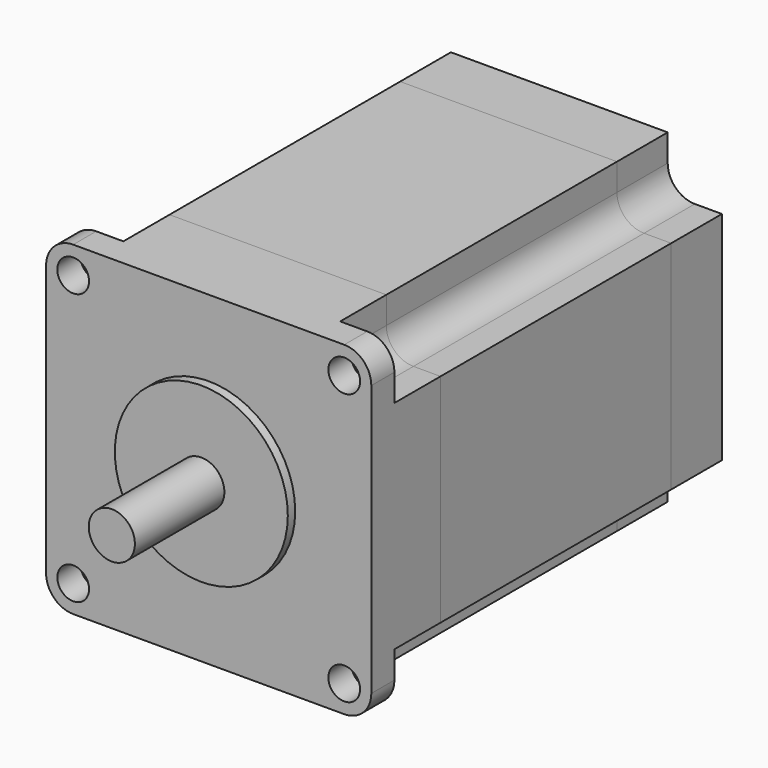
from build123d import *

# Parameters (mm, degrees)
F0_W      = 56.4
F0_H      = 56.4
F1_DEPTH  = 15
F3_D      = 5.5
F5_DEPTH  = 10
F7_DEPTH  = 5.001
F8_DEPTH  = 50
F9_DEPTH  = 11
F10_R     = 15
F11_DEPTH = 1.6
F12_R     = 4
F13_DEPTH = 21
F14_R     = 3.175
F15_DEPTH = 15


with BuildPart() as f1:
    # F0 (on Front) → F1 (new body)
    with BuildSketch(Plane.XZ):
        Rectangle(F0_W, F0_H)
    extrude(amount=-F1_DEPTH)

    # F3 (through all)
    with Locations(Plane.XZ):
        with Locations((-23.5, -23.5), (-23.5, 23.5), (23.5, 23.5), (23.5, -23.5)):
            Hole(F3_D / 2)

    # F4 (on face) → F5 (cut)
    with BuildSketch(Plane(origin=(0, 15, 0), x_dir=(-1, 0, 0), z_dir=(0, 1, 0))):
        with BuildLine():
            Line((28.2, 18.8), (28.2, 28.2))
            Line((28.2, 28.2), (18.8, 28.2))
            Line((18.8, 28.2), (18.8, 23.5))
            ThreePointArc((18.8, 23.5), (20.1765981284, 20.1765981284), (23.5, 18.8))
            Line((23.5, 18.8), (28.2, 18.8))
        make_face()
        with BuildLine():
            Line((28.2, -28.2), (28.2, -18.8))
            Line((28.2, -18.8), (23.5, -18.8))
            ThreePointArc((23.5, -18.8), (20.1765981284, -20.1765981284), (18.8, -23.5))
            Line((18.8, -23.5), (18.8, -28.2))
            Line((18.8, -28.2), (28.2, -28.2))
        make_face()
        with BuildLine():
            Line((-18.8, 23.5), (-18.8, 28.2))
            Line((-18.8, 28.2), (-28.2, 28.2))
            Line((-28.2, 28.2), (-28.2, 18.8))
            Line((-28.2, 18.8), (-23.5, 18.8))
            ThreePointArc((-23.5, 18.8), (-20.1765981284, 20.1765981284), (-18.8, 23.5))
        make_face()
        with BuildLine():
            Line((-28.2, -18.8), (-28.2, -28.2))
            Line((-28.2, -28.2), (-18.8, -28.2))
            Line((-18.8, -28.2), (-18.8, -23.5))
            ThreePointArc((-18.8, -23.5), (-20.1765981284, -20.1765981284), (-23.5, -18.8))
            Line((-23.5, -18.8), (-28.2, -18.8))
        make_face()
    extrude(amount=-F5_DEPTH, mode=Mode.SUBTRACT)

    # F6 (on face) → F7 (cut, through all)
    with BuildSketch(Plane(origin=(0, 5, 0), x_dir=(-1, 0, 0), z_dir=(0, 1, 0))):
        with BuildLine():
            ThreePointArc((23.5, 28.2), (26.8234018716, 26.8234018716), (28.2, 23.5))
            Line((28.2, 23.5), (28.2, 28.2))
            Line((28.2, 28.2), (23.5, 28.2))
        make_face()
        with BuildLine():
            Line((23.5, -28.2), (28.2, -28.2))
            Line((28.2, -28.2), (28.2, -23.5))
            ThreePointArc((28.2, -23.5), (26.8234018716, -26.8234018716), (23.5, -28.2))
        make_face()
        with BuildLine():
            Line((-23.5, 28.2), (-28.2, 28.2))
            Line((-28.2, 28.2), (-28.2, 23.5))
            ThreePointArc((-28.2, 23.5), (-26.8234018716, 26.8234018716), (-23.5, 28.2))
        make_face()
        with BuildLine():
            Line((-28.2, -28.2), (-23.5, -28.2))
            ThreePointArc((-23.5, -28.2), (-26.8234018716, -26.8234018716), (-28.2, -23.5))
            Line((-28.2, -23.5), (-28.2, -28.2))
        make_face()
    extrude(amount=-F7_DEPTH, mode=Mode.SUBTRACT)


with BuildPart() as f8:
    # F8 (new): a face of the model
    f8_faces = [f1.part.faces().sort_by_distance(p)[0] for p in [
        (0, 15, 0),
    ]]
    extrude(f8_faces, amount=F8_DEPTH)


with BuildPart() as f9:
    # F9 (new): a face of the model
    f9_faces = [f8.part.faces().sort_by_distance(p)[0] for p in [
        (0, 65, 0),
    ]]
    extrude(f9_faces, amount=F9_DEPTH)


with BuildPart() as f1_1:
    add(f1.part)

    # F10 (on face) → F11 (join)
    with BuildSketch(Plane.XZ):
        Circle(F10_R)
    extrude(amount=F11_DEPTH)


with BuildPart() as f13:
    # F12 (on face) → F13 (new body)
    with BuildSketch(Plane.XZ):
        Circle(F12_R)
    extrude(amount=F13_DEPTH)


with BuildPart() as f15:
    # F14 (on face) → F15 (new body)
    with BuildSketch(Plane(origin=(0, 76, 0), x_dir=(-1, 0, 0), z_dir=(0, 1, 0))):
        Circle(F14_R)
    extrude(amount=F15_DEPTH)


solid = Compound([f8.part, f9.part, f1_1.part, f13.part, f15.part])
